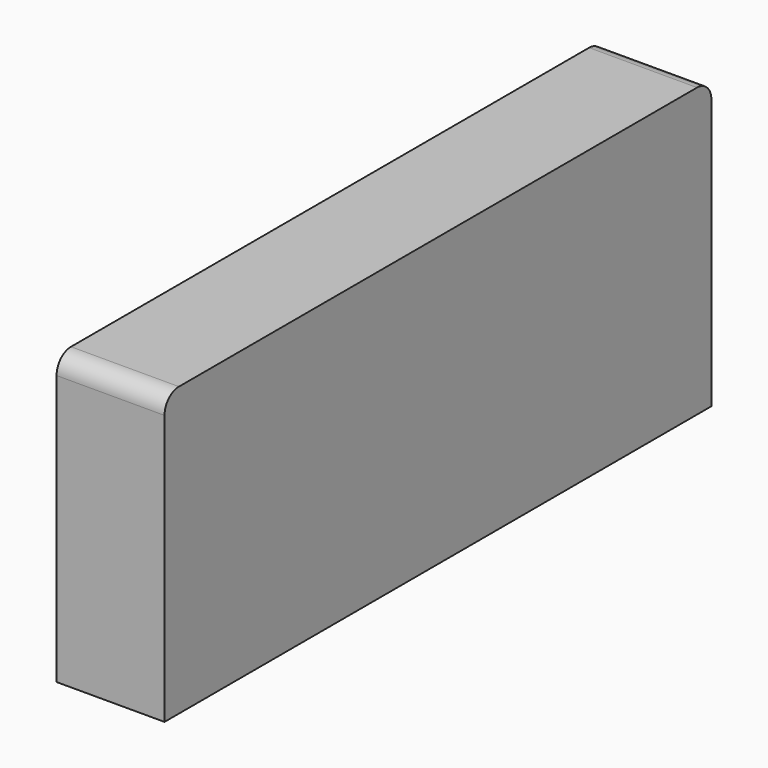
from build123d import *

# Parameters (mm, degrees)
F0_W     = 120.65
F0_H     = 50.8
F1_DEPTH = 9.525
F2_R     = 3.175
F4_D     = 5.1054
F4_DEPTH = 12.7
F4_TIP   = 1.5338169022


with BuildPart() as f1:
    # F0 (on Right) → F1 (new body, symmetric)
    with BuildSketch(Plane.YZ):
        Rectangle(F0_W, F0_H)
    extrude(amount=F1_DEPTH, both=True)

    # F2
    f2_edges = [f1.edges().sort_by_distance(p)[0] for p in [
        (0, -60.325, 25.4),
        (0, 60.325, 25.4),
    ]]
    fillet(f2_edges, radius=F2_R)

    # F4
    with Locations(Plane(origin=(0, 0, -25.4), x_dir=(1, 0, 0), z_dir=(0, 0, -1))):
        with Locations((0, 38.1), (0, 0), (0, -38.1)):
            Hole(F4_D / 2, depth=F4_DEPTH)
            with Locations((0, 0, -(F4_DEPTH + F4_TIP / 2))):  # 118° drill point
                Cone(0, F4_D / 2, F4_TIP, mode=Mode.SUBTRACT)


solid = f1.part
